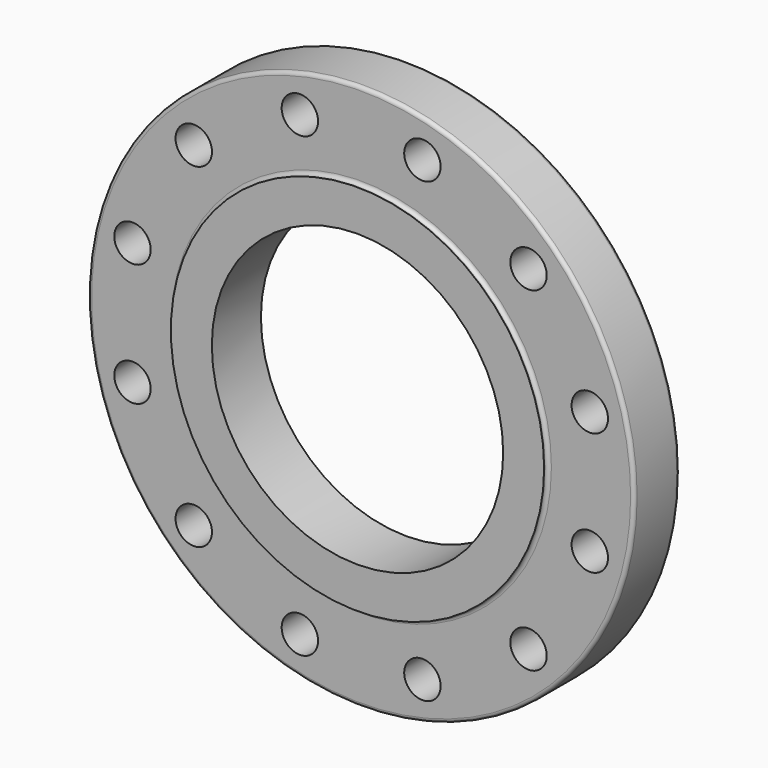
from build123d import *

# Parameters (mm, degrees)
F0_R     = 190.5
F0_R_2   = 12.7
F0_R_3   = 101.6
F1_DEPTH = 39.624
F2_R     = 130.175
F2_R_2   = 101.6
F3_DEPTH = 3.175
F4_R     = 2.54


with BuildPart() as f1:
    # F0 (on Front) → F1 (new body)
    with BuildSketch(Plane.XZ):
        Circle(F0_R)
        with Locations((-116.74333, -116.74333)):
            Circle(F0_R_2, mode=Mode.SUBTRACT)
        with Locations((-42.731024, -159.474354)):
            Circle(F0_R_2, mode=Mode.SUBTRACT)
        with Locations((-159.474354, -42.731024)):
            Circle(F0_R_2, mode=Mode.SUBTRACT)
        with Locations((42.731024, -159.474354)):
            Circle(F0_R_2, mode=Mode.SUBTRACT)
        with Locations((116.74333, -116.74333)):
            Circle(F0_R_2, mode=Mode.SUBTRACT)
        with Locations((159.474354, -42.731024)):
            Circle(F0_R_2, mode=Mode.SUBTRACT)
        with Locations((-159.474354, 42.731024)):
            Circle(F0_R_2, mode=Mode.SUBTRACT)
        with Locations((-116.74333, 116.74333)):
            Circle(F0_R_2, mode=Mode.SUBTRACT)
        with Locations((-42.731024, 159.474354)):
            Circle(F0_R_2, mode=Mode.SUBTRACT)
        Circle(F0_R_3, mode=Mode.SUBTRACT)
        with Locations((159.474354, 42.731024)):
            Circle(F0_R_2, mode=Mode.SUBTRACT)
        with Locations((42.731024, 159.474354)):
            Circle(F0_R_2, mode=Mode.SUBTRACT)
        with Locations((116.74333, 116.74333)):
            Circle(F0_R_2, mode=Mode.SUBTRACT)
    extrude(amount=F1_DEPTH)

    # F2 (on face) → F3 (join)
    with BuildSketch(Plane.XZ.offset(39.624)):
        Circle(F2_R)
        Circle(F2_R_2, mode=Mode.SUBTRACT)
    extrude(amount=F3_DEPTH)

    # F4
    f4_edges = [f1.edges().sort_by_distance(p)[0] for p in [
        (-190.5, -39.624, 0),
        (-190.5, 0, 0),
        (-130.175, -39.624, 0),
    ]]
    fillet(f4_edges, radius=F4_R)


solid = f1.part
